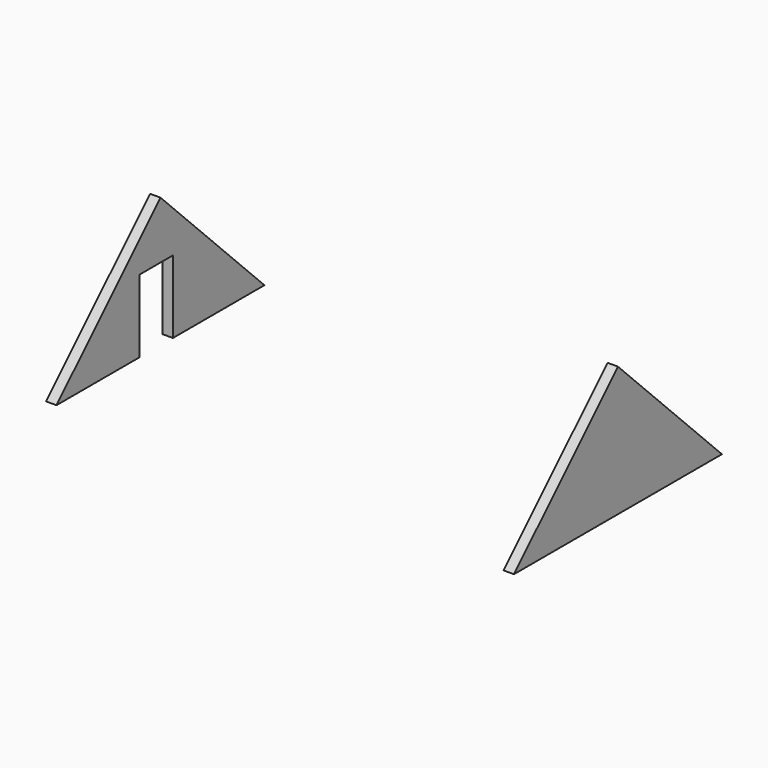
from build123d import *

# Parameters (mm, degrees)
BOX111_W               = 5
BOX111_H               = 4
BOX111_DEPTH           = 7
BOX030_W               = 10
BOX030_H               = 10
BOX030_DEPTH           = 20
BOX030_PLACEMENT_ANGLE = 45
BOX029_W               = 10
BOX029_H               = 20
BOX029_DEPTH           = 10
BOX029_PLACEMENT_ANGLE = 45
BOX028_W               = 1
BOX028_H               = 25
BOX028_DEPTH           = 13
BOX033_W               = 10
BOX033_H               = 10
BOX033_DEPTH           = 20
BOX033_PLACEMENT_ANGLE = 45
BOX032_W               = 10
BOX032_H               = 20
BOX032_DEPTH           = 10
BOX032_PLACEMENT_ANGLE = 45
BOX031_W               = 1
BOX031_H               = 25
BOX031_DEPTH           = 13


with BuildPart() as box111:
    # Box111 → Box111 (new body)
    with BuildSketch(Plane(origin=(-1, 10, 11), x_dir=(1, 0, 0), z_dir=(0, 0, 1))):
        with Locations((2.5, 2)):
            Rectangle(BOX111_W, BOX111_H)
    extrude(amount=BOX111_DEPTH)


with BuildPart() as box030:
    # Box030 → Box030 (new body)
    with BuildSketch(Plane.XY):
        with Locations((5, 5)):
            Rectangle(BOX030_W, BOX030_H)
    extrude(amount=BOX030_DEPTH)


with BuildPart() as box030_1:
    # Box030 placement: moved
    add(box030.part.moved(Location((-9, 25, 11))).rotate(Axis((-9, 25, 11), (1, 0, 0)), BOX030_PLACEMENT_ANGLE))


with BuildPart() as box029:
    # Box029 → Box029 (new body)
    with BuildSketch(Plane.XY):
        with Locations((5, 10)):
            Rectangle(BOX029_W, BOX029_H)
    extrude(amount=BOX029_DEPTH)


with BuildPart() as box029_1:
    # Box029 placement: moved
    add(box029.part.moved(Location((-9, 0, 11))).rotate(Axis((-9, 0, 11), (1, 0, 0)), BOX029_PLACEMENT_ANGLE))


with BuildPart() as cut041:
    # Box028 → Box028 (new body)
    with BuildSketch(Plane.XY.offset(11)):
        with Locations((0.5, 12.5)):
            Rectangle(BOX028_W, BOX028_H)
    extrude(amount=BOX028_DEPTH)

    # Cut003: cut Box029
    add(box029_1.part, mode=Mode.SUBTRACT)

    # Cut004: cut Box030
    add(box030_1.part, mode=Mode.SUBTRACT)

    # Cut041: cut Box111
    add(box111.part, mode=Mode.SUBTRACT)


with BuildPart() as box033:
    # Box033 → Box033 (new body)
    with BuildSketch(Plane.XY):
        with Locations((5, 5)):
            Rectangle(BOX033_W, BOX033_H)
    extrude(amount=BOX033_DEPTH)


with BuildPart() as box033_1:
    # Box033 placement: moved
    add(box033.part.moved(Location((-9, 25, 11))).rotate(Axis((-9, 25, 11), (1, 0, 0)), BOX033_PLACEMENT_ANGLE))


with BuildPart() as box032:
    # Box032 → Box032 (new body)
    with BuildSketch(Plane.XY):
        with Locations((5, 10)):
            Rectangle(BOX032_W, BOX032_H)
    extrude(amount=BOX032_DEPTH)


with BuildPart() as box032_1:
    # Box032 placement: moved
    add(box032.part.moved(Location((-9, 0, 11))).rotate(Axis((-9, 0, 11), (1, 0, 0)), BOX032_PLACEMENT_ANGLE))


with BuildPart() as fusion066:
    # Box031 → Box031 (new body)
    with BuildSketch(Plane.XY.offset(11)):
        with Locations((0.5, 12.5)):
            Rectangle(BOX031_W, BOX031_H)
    extrude(amount=BOX031_DEPTH)

    # Cut005: cut Box032
    add(box032_1.part, mode=Mode.SUBTRACT)

    # Cut006: cut Box033
    add(box033_1.part, mode=Mode.SUBTRACT)


with BuildPart() as fusion066_1:
    # Cut006 placement: moved
    add(fusion066.part.moved(Location((44, 0, 0))))

    # Fusion066: union Cut041
    add(cut041.part)


solid = fusion066_1.part
